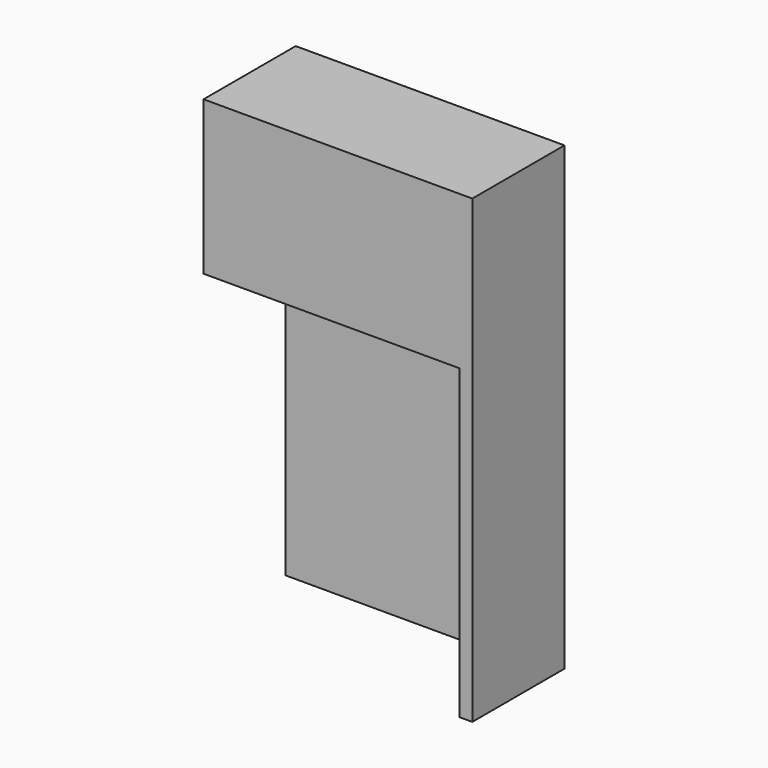
from build123d import *

# Parameters (mm, degrees)
F0_W     = 63.5
F0_H     = 38.1
F1_DEPTH = 3.175
F2_W     = 22.225
F2_H     = 38.1
F2_W_2   = 3.175
F3_DEPTH = 3.175
F5_DEPTH = 76.2
F6_W     = 63.5
F6_H     = 114.3
F6_W_2   = 3.175
F7_DEPTH = 3.175
F8_W     = 63.5
F8_H     = 22.225
F9_DEPTH = 3.175


with BuildPart() as f1:
    # F0 (on Front) → F1 (new body)
    with BuildSketch(Plane.XZ):
        Rectangle(F0_W, F0_H)
    extrude(amount=F1_DEPTH)

    # F2 (on face) → F3 (join)
    with BuildSketch(Plane.YZ.offset(31.75)):
        with Locations((11.1125, 0)):
            Rectangle(F2_W, F2_H)
        with Locations((-1.5875, 0)):
            Rectangle(F2_W_2, F2_H)
    extrude(amount=F3_DEPTH)

    # F4 (on face) → F5 (join)
    with BuildSketch(Plane(origin=(0, 0, -19.05), x_dir=(1, 0, 0), z_dir=(0, 0, -1))):
        Polygon((31.75, -22.225), (34.925, -22.225), (34.925, 3.175), (31.75, 3.175), (31.75, 0), align=None)
    extrude(amount=F5_DEPTH)

    # F6 (on face) → F7 (join)
    with BuildSketch(Plane(origin=(0, 22.225, 0), x_dir=(-1, 0, 0), z_dir=(0, 1, 0))):
        with Locations((0, -38.1)):
            Rectangle(F6_W, F6_H)
        with Locations((-33.3375, -38.1)):
            Rectangle(F6_W_2, F6_H)
    extrude(amount=F7_DEPTH)

    # F8 (on face) → F9 (join)
    with BuildSketch(Plane.XY.offset(19.05)):
        with Locations((0, 11.1125)):
            Rectangle(F8_W, F8_H)
    extrude(amount=-F9_DEPTH)


solid = f1.part
